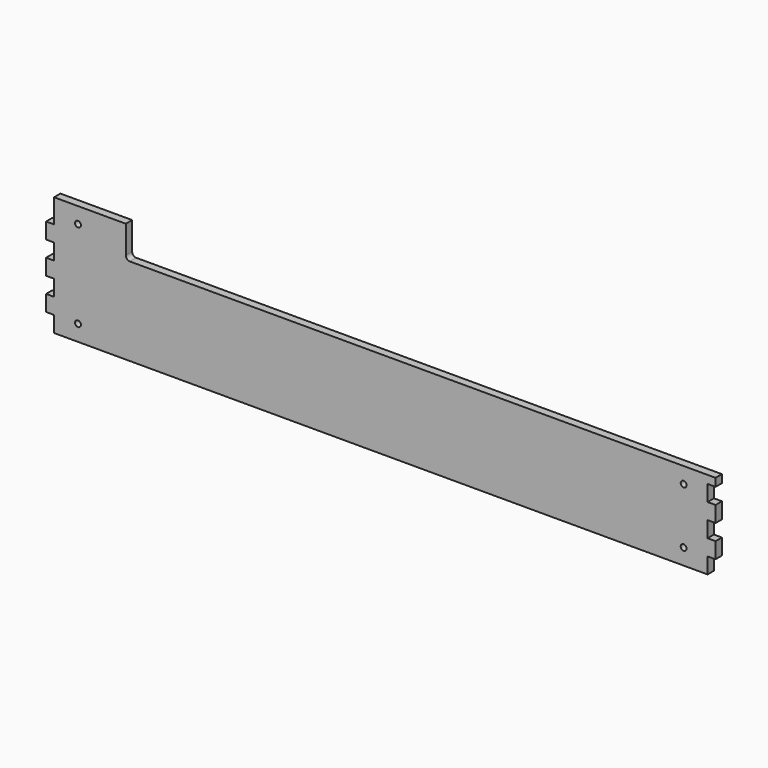
from build123d import *

# Parameters (mm, degrees)
SKETCH006_R            = 2.3495
PAD006_DEPTH           = 6.35
SKETCH007_W            = 6.35
SKETCH007_H            = 12.7
POCKET002_DEPTH        = 0.001
POCKET002_DEPTH_BACK   = 6.351
LINEARPATTERN002_COUNT = 3
LINEARPATTERN002_PITCH = 25.4
SKETCH009_W            = 6.35
SKETCH009_H            = 12.7
POCKET003_DEPTH        = 0.001
POCKET003_DEPTH_BACK   = 6.351
LINEARPATTERN003_COUNT = 3
LINEARPATTERN003_PITCH = 25.4


with BuildPart() as part:
    # Sketch006 → Pad006 (new body)
    with BuildSketch(Plane.XZ):
        with BuildLine():
            Line((533.4, 6.35), (533.4, 76.2))
            Line((533.4, 76.2), (66.675, 76.2))
            ThreePointArc((63.5, 79.375), (64.429936, 77.129936), (66.675, 76.2))
            Line((63.5, 79.375), (63.5, 101.6))
            Line((63.5, 101.6), (6.35, 101.6))
            Line((6.35, 101.6), (6.35, 82.55))
            Line((6.35, 82.55), (0, 82.55))
            Line((0, 82.55), (0, 6.35))
            Line((0, 6.35), (533.4, 6.35))
        make_face()
        with Locations((508, 63.5)):
            Circle(SKETCH006_R, mode=Mode.SUBTRACT)
        with Locations((508, 19.05)):
            Circle(SKETCH006_R, mode=Mode.SUBTRACT)
        with Locations((25.4, 19.05)):
            Circle(SKETCH006_R, mode=Mode.SUBTRACT)
        with Locations((25.4, 88.9)):
            Circle(SKETCH006_R, mode=Mode.SUBTRACT)
    extrude(amount=PAD006_DEPTH)

    # Sketch007 → Pocket002 (cut, two sides)
    with BuildSketch(Plane.XZ) as pocket002_sk:
        with Locations((3.175, 12.7)):
            Rectangle(SKETCH007_W, SKETCH007_H)
    pocket002 = extrude(amount=-POCKET002_DEPTH, mode=Mode.SUBTRACT) + extrude(pocket002_sk.sketch, amount=POCKET002_DEPTH_BACK, mode=Mode.SUBTRACT)

    # LinearPattern002: Pocket002 ×3
    with Locations(*[(0, 0, i * LINEARPATTERN002_PITCH) for i in range(1, LINEARPATTERN002_COUNT)]):
        add(pocket002, mode=Mode.SUBTRACT)

    # Sketch009 → Pocket003 (cut, two sides)
    with BuildSketch(Plane.XZ) as pocket003_sk:
        with Locations((530.225, 12.7)):
            Rectangle(SKETCH009_W, SKETCH009_H)
    pocket003 = extrude(amount=-POCKET003_DEPTH, mode=Mode.SUBTRACT) + extrude(pocket003_sk.sketch, amount=POCKET003_DEPTH_BACK, mode=Mode.SUBTRACT)

    # LinearPattern003: Pocket003 ×3
    with Locations(*[(0, 0, i * LINEARPATTERN003_PITCH) for i in range(1, LINEARPATTERN003_COUNT)]):
        add(pocket003, mode=Mode.SUBTRACT)


solid = part.part
